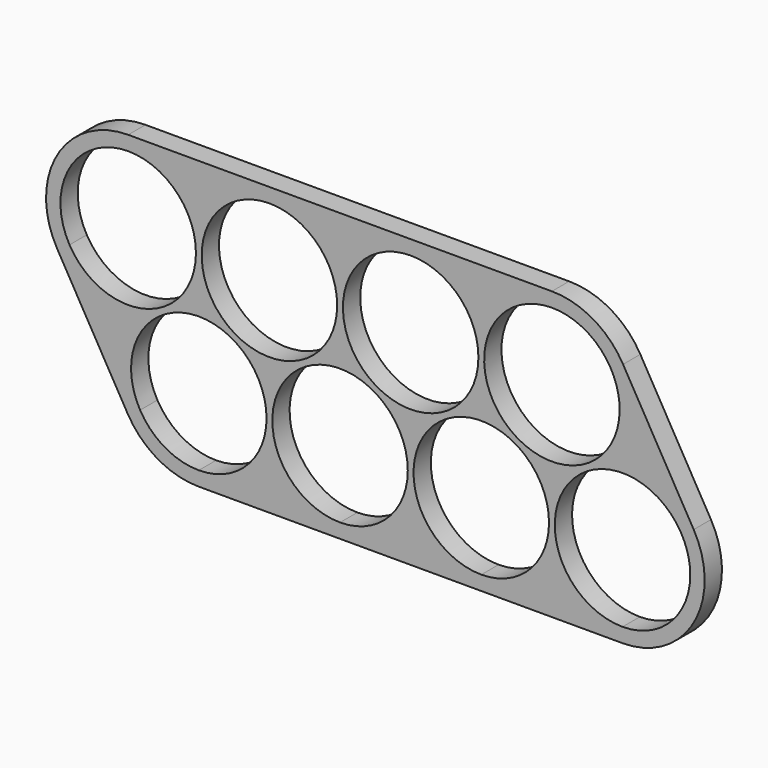
from build123d import *

# Parameters (mm, degrees)
F1_DEPTH = 3


with BuildPart() as f1:
    # F0 (on Front) → F1 (new body)
    with BuildSketch(Plane.XZ):
        with BuildLine():
            ThreePointArc((0, 9.4), (6.646804, 6.646804), (9.4, 0))
            ThreePointArc((9.4, 0), (2.429903, -9.080505), (-8.143739, -4.694626))
            Line((-8.143739, -4.694626), (1.656261, -21.694626))
            ThreePointArc((1.656261, -21.694626), (7.370097, -7.919495), (19.2, -17))
            ThreePointArc((19.2, -17), (16.446804, -23.646804), (9.8, -26.4))
            Line((9.8, -26.4), (29.4, -26.4))
            Line((29.4, -26.4), (49, -26.4))
            Line((49, -26.4), (68.6, -26.4))
            ThreePointArc((68.6, -26.4), (60.460913, -12.297314), (76.743739, -12.305374))
            Line((76.743739, -12.305374), (66.943739, 4.694626))
            ThreePointArc((66.943739, 4.694626), (67.880505, 2.429903), (68.2, 0))
            ThreePointArc((68.2, 0), (52.153196, -6.646804), (58.8, 9.4))
            Line((58.8, 9.4), (39.2, 9.4))
            Line((39.2, 9.4), (19.6, 9.4))
            Line((19.6, 9.4), (0, 9.4))
        make_face()
        with BuildLine():
            ThreePointArc((38.8, -17), (36.046804, -23.646804), (29.4, -26.4))
            ThreePointArc((29.4, -26.4), (22.753196, -10.353196), (38.8, -17))
        make_face(mode=Mode.SUBTRACT)
        with BuildLine():
            ThreePointArc((58.4, -17), (55.646804, -23.646804), (49, -26.4))
            ThreePointArc((49, -26.4), (42.353196, -10.353196), (58.4, -17))
        make_face(mode=Mode.SUBTRACT)
        with BuildLine():
            ThreePointArc((29, 0), (12.953196, -6.646804), (19.6, 9.4))
            ThreePointArc((19.6, 9.4), (26.246804, 6.646804), (29, 0))
        make_face(mode=Mode.SUBTRACT)
        with BuildLine():
            ThreePointArc((48.6, 0), (32.553196, -6.646804), (39.2, 9.4))
            ThreePointArc((39.2, 9.4), (45.846804, 6.646804), (48.6, 0))
        make_face(mode=Mode.SUBTRACT)
        with BuildLine():
            Line((58.8, 11.4), (0, 11.4))
            ThreePointArc((0, 11.4), (-9.870808, 5.703258), (-9.87645, -5.693483))
            Line((-9.87645, -5.693483), (-0.07645, -22.693483))
            ThreePointArc((-0.07645, -22.693483), (4.096742, -26.870808), (9.8, -28.4))
            Line((9.8, -28.4), (68.6, -28.4))
            ThreePointArc((68.6, -28.4), (78.470808, -22.703258), (78.47645, -11.306517))
            Line((78.47645, -11.306517), (68.67645, 5.693483))
            ThreePointArc((68.67645, 5.693483), (64.503258, 9.870808), (58.8, 11.4))
        make_face()
        with BuildLine():
            ThreePointArc((-8.143739, -4.694626), (-8.139087, 4.702686), (0, 9.4))
            Line((0, 9.4), (19.6, 9.4))
            Line((19.6, 9.4), (39.2, 9.4))
            Line((39.2, 9.4), (58.8, 9.4))
            ThreePointArc((58.8, 9.4), (63.502686, 8.139087), (66.943739, 4.694626))
            Line((66.943739, 4.694626), (76.743739, -12.305374))
            ThreePointArc((76.743739, -12.305374), (77.680505, -14.570097), (78, -17))
            ThreePointArc((78, -17), (75.246804, -23.646804), (68.6, -26.4))
            Line((68.6, -26.4), (49, -26.4))
            Line((49, -26.4), (29.4, -26.4))
            Line((29.4, -26.4), (9.8, -26.4))
            ThreePointArc((9.8, -26.4), (5.097314, -25.139087), (1.656261, -21.694626))
            Line((1.656261, -21.694626), (-8.143739, -4.694626))
        make_face(mode=Mode.SUBTRACT)
        with BuildLine():
            ThreePointArc((0, 9.4), (6.646804, 6.646804), (9.4, 0))
            ThreePointArc((9.4, 0), (2.429903, -9.080505), (-8.143739, -4.694626))
            Line((-8.143739, -4.694626), (1.656261, -21.694626))
            ThreePointArc((1.656261, -21.694626), (7.370097, -7.919495), (19.2, -17))
            ThreePointArc((19.2, -17), (16.446804, -23.646804), (9.8, -26.4))
            Line((9.8, -26.4), (29.4, -26.4))
            Line((29.4, -26.4), (49, -26.4))
            Line((49, -26.4), (68.6, -26.4))
            ThreePointArc((68.6, -26.4), (60.460913, -12.297314), (76.743739, -12.305374))
            Line((76.743739, -12.305374), (66.943739, 4.694626))
            ThreePointArc((66.943739, 4.694626), (67.880505, 2.429903), (68.2, 0))
            ThreePointArc((68.2, 0), (52.153196, -6.646804), (58.8, 9.4))
            Line((58.8, 9.4), (39.2, 9.4))
            Line((39.2, 9.4), (19.6, 9.4))
            Line((19.6, 9.4), (0, 9.4))
        make_face()
        with BuildLine():
            ThreePointArc((38.8, -17), (36.046804, -23.646804), (29.4, -26.4))
            ThreePointArc((29.4, -26.4), (22.753196, -10.353196), (38.8, -17))
        make_face(mode=Mode.SUBTRACT)
        with BuildLine():
            ThreePointArc((58.4, -17), (55.646804, -23.646804), (49, -26.4))
            ThreePointArc((49, -26.4), (42.353196, -10.353196), (58.4, -17))
        make_face(mode=Mode.SUBTRACT)
        with BuildLine():
            ThreePointArc((29, 0), (12.953196, -6.646804), (19.6, 9.4))
            ThreePointArc((19.6, 9.4), (26.246804, 6.646804), (29, 0))
        make_face(mode=Mode.SUBTRACT)
        with BuildLine():
            ThreePointArc((48.6, 0), (32.553196, -6.646804), (39.2, 9.4))
            ThreePointArc((39.2, 9.4), (45.846804, 6.646804), (48.6, 0))
        make_face(mode=Mode.SUBTRACT)
    extrude(amount=F1_DEPTH)


solid = f1.part
